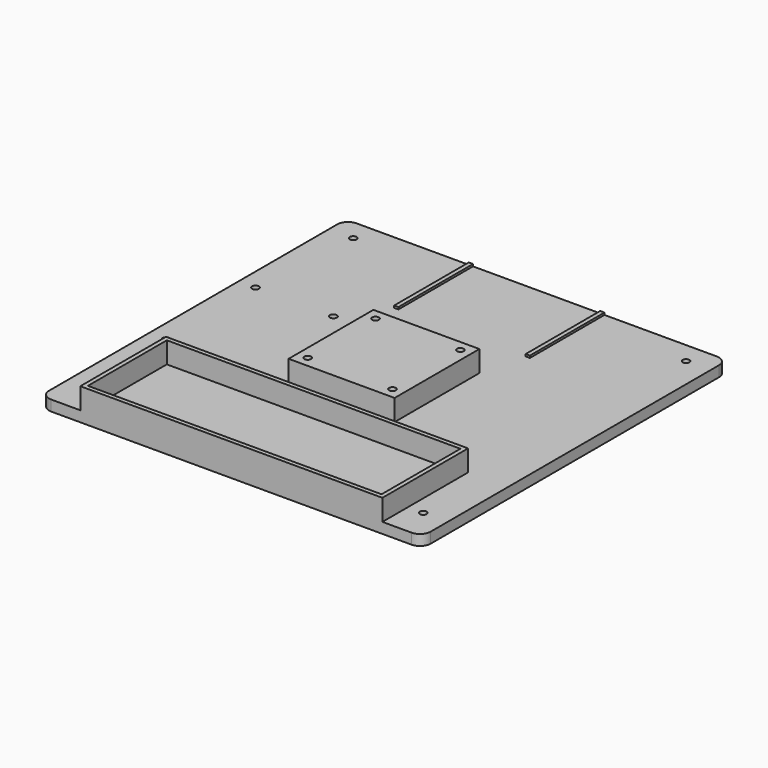
from build123d import *

# Parameters (mm, degrees)
F0_W      = 180
F0_H      = 180
F1_DEPTH  = 5
F2_R      = 5
F3_R      = 1.6
F4_DEPTH  = 5
F5_R      = 1.625
F6_DEPTH  = 5
F7_W      = 50
F7_H      = 50
F8_DEPTH  = 10
F11_DEPTH = 10
F9_R      = 1.6
F12_DEPTH = 25
F13_W     = 2
F13_H     = 44
F14_DEPTH = 1


with BuildPart() as f1:
    # F0 (on Top) → F1 (new body)
    with BuildSketch(Plane.XY):
        with Locations((-2.0224731235, 90)):
            Rectangle(F0_W, F0_H)
    extrude(amount=F1_DEPTH)

    # F2
    f2_edges = [f1.edges().sort_by_distance(p)[0] for p in [
        (87.977527, 0, 2.5),
        (-92.022473, 180, 2.5),
        (-92.022473, 0, 2.5),
        (87.977527, 180, 2.5),
    ]]
    fillet(f2_edges, radius=F2_R)

    # F3 (on face) → F4 (cut)
    with BuildSketch(Plane.XY.offset(5)):
        with Locations((-80.5224731235, 170)):
            Circle(F3_R)
        with Locations((76.4775268765, 170)):
            Circle(F3_R)
        with Locations((76.4775268765, 15)):
            Circle(F3_R)
        with Locations((-80.5224731235, 37.5)):
            Circle(F3_R)
    extrude(amount=-F4_DEPTH, mode=Mode.SUBTRACT)

    # F5 (on face) → F6 (cut)
    with BuildSketch(Plane.XY.offset(5)):
        with Locations((-84.0224731235, 64)):
            Circle(F5_R)
        with Locations((-84.0224731235, 116.75)):
            Circle(F5_R)
        with Locations((-47.2724731235, 64)):
            Circle(F5_R)
        with Locations((-47.2724731235, 116.75)):
            Circle(F5_R)
    extrude(amount=-F6_DEPTH, mode=Mode.SUBTRACT)

    # F7 (on face) → F8 (join)
    with BuildSketch(Plane.XY.offset(5)):
        with Locations((-2.0224731235, 90)):
            Rectangle(F7_W, F7_H)
    extrude(amount=F8_DEPTH)

    # F10 (on face) → F11 (join)
    with BuildSketch(Plane.XY.offset(5)):
        Polygon((69.2275268765, 50.5), (-2.0224731235, 50.5), (-73.2724731235, 50.5), (-73.2724731235, 0), (69.2275268765, 0), align=None)
        Polygon((-71.2724731235, 48.5), (-2.0224731235, 48.5), (67.2275268765, 48.5), (67.2275268765, 2), (-71.2724731235, 2), align=None, mode=Mode.SUBTRACT)
    extrude(amount=F11_DEPTH)

    # F9 (on face) → F12 (cut)
    with BuildSketch(Plane.XY.offset(15)):
        with Locations((-22.0224731235, 70)):
            Circle(F9_R)
        with Locations((17.9775268765, 70)):
            Circle(F9_R)
        with Locations((17.9775268765, 110)):
            Circle(F9_R)
        with Locations((-22.0224731235, 110)):
            Circle(F9_R)
    extrude(amount=-F12_DEPTH, mode=Mode.SUBTRACT)

    # F13 (on face) → F14 (join)
    with BuildSketch(Plane.XY.offset(5)):
        with Locations((-33.0224731235, 158)):
            Rectangle(F13_W, F13_H)
        with Locations((28.9775268765, 158)):
            Rectangle(F13_W, F13_H)
    extrude(amount=F14_DEPTH)


solid = f1.part
